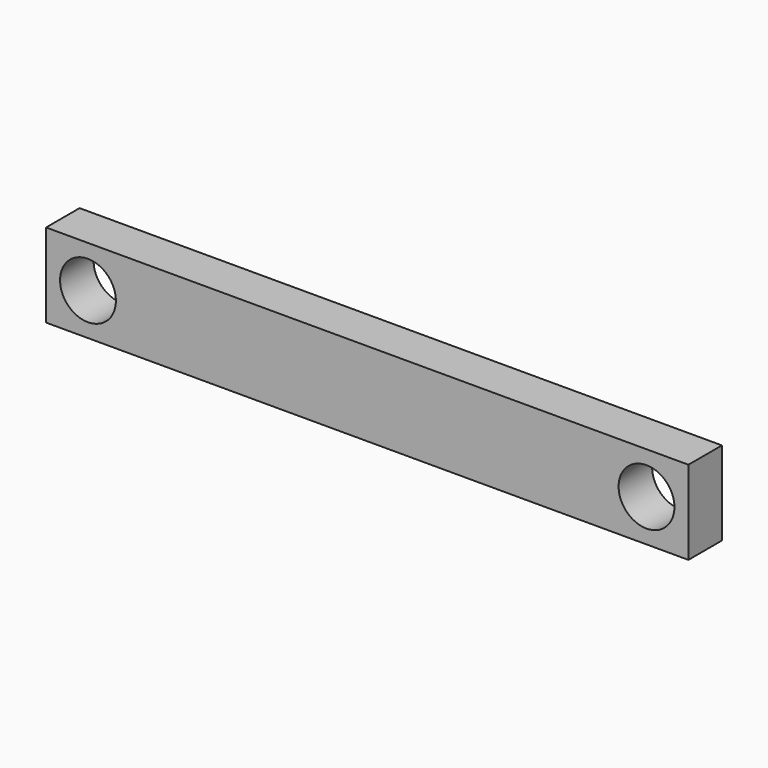
from build123d import *

# Parameters (mm, degrees)
F0_W     = 230
F0_H     = 30
F0_R     = 10
F1_DEPTH = 7.5


with BuildPart() as f1:
    # F0 (on Front) → F1 (new body, symmetric)
    with BuildSketch(Plane.XZ):
        with Locations((-100, 0)):
            Rectangle(F0_W, F0_H)
        with Locations((-200, 0)):
            Circle(F0_R, mode=Mode.SUBTRACT)
        Circle(F0_R, mode=Mode.SUBTRACT)
    extrude(amount=F1_DEPTH, both=True)


solid = f1.part
